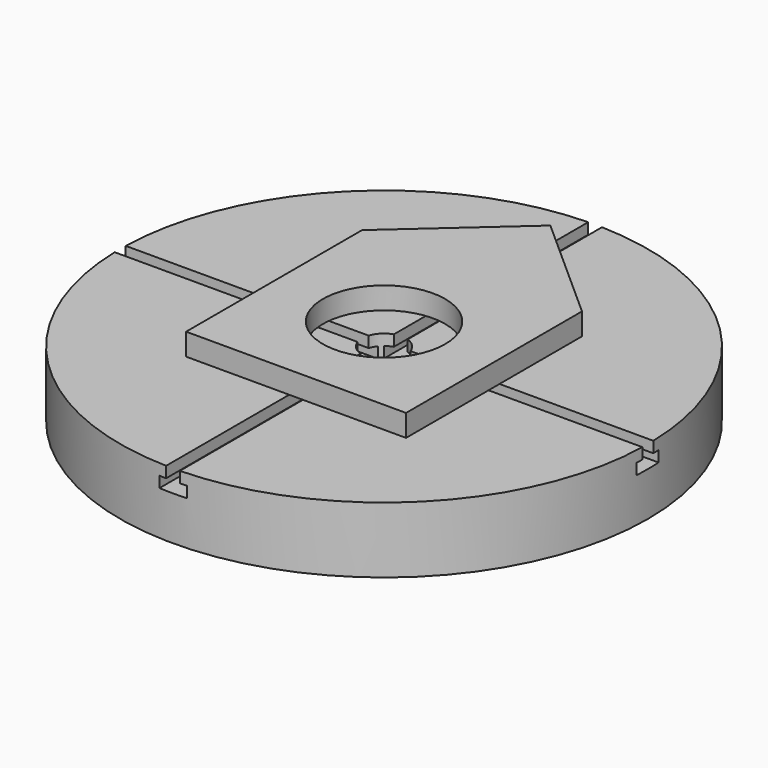
from build123d import *

# Parameters (mm, degrees)
F0_R          = 304.8
F0_R_2        = 25.4
F1_DEPTH      = 76.2
F3_DEPTH      = 304.801
F3_DEPTH_BACK = 304.801
F4_COUNT      = 2
F4_ANGLE      = 90
F6_W          = 254
F6_H          = 254
F6_R          = 70.594601
F7_DEPTH      = 25.4


with BuildPart() as f1:
    # F0 (on Top) → F1 (new body)
    with BuildSketch(Plane.XY):
        Circle(F0_R)
        Circle(F0_R_2, mode=Mode.SUBTRACT)
    extrude(amount=F1_DEPTH)


with BuildPart() as f3:
    # F2 (on Front) → F3 (new body, two sides)
    with BuildSketch(Plane.XZ) as f3_sk:
        Polygon((7.9375, 76.2), (-7.9375, 76.2), (-7.9375, 63.5), (-15.875, 63.5), (-15.875, 50.8), (15.875, 50.8), (15.875, 63.5), (7.9375, 63.5), align=None)
    extrude(amount=F3_DEPTH)
    extrude(f3_sk.sketch, amount=-F3_DEPTH_BACK)


with BuildPart() as f4_1:
    # F4: instance of F3
    add(f3.part.rotate(Axis((0, 0, 58.865096), (0, 0, 1)), 1 * F4_ANGLE / (F4_COUNT - 1)))


with BuildPart() as f1_1:
    add(f1.part)

    # F5: cut F4_1, F3
    add(f4_1.part, mode=Mode.SUBTRACT)
    add(f3.part, mode=Mode.SUBTRACT)


with BuildPart() as f7:
    # F6 (on face) → F7 (new body)
    with BuildSketch(Plane.XY.offset(76.2)):
        Rectangle(F6_W, F6_H)
        Circle(F6_R, mode=Mode.SUBTRACT)
        Rectangle(F6_W, F6_H)
        Circle(F6_R, mode=Mode.SUBTRACT)
        Polygon((0, 240.081295), (-127, 127), (127, 127), align=None)
        Polygon((0, 240.081295), (-127, 127), (127, 127), align=None)
    extrude(amount=F7_DEPTH)


solid = Compound([f1_1.part, f7.part])
